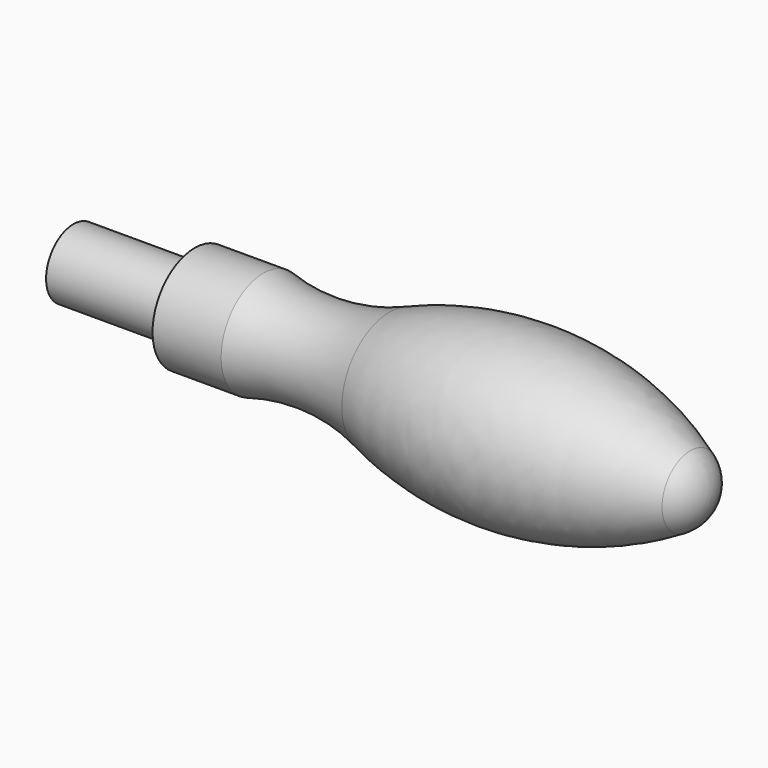
from build123d import *


with BuildPart() as f1:
    # F0 (on Front) → F1 (revolve)
    with BuildSketch(Plane.XZ):
        with BuildLine():
            Line((0, 6.5), (0, 0))
            Line((0, 0), (120.8, 0))
            ThreePointArc((120.8, 0), (119.780303, 3.855839), (116.987822, 6.703527))
            ThreePointArc((116.987822, 6.703527), (88.997191, 15.626515), (59.937706, 11.308939))
            ThreePointArc((59.937706, 11.308939), (48.07478, 8.717289), (36, 10))
            Line((36, 10), (23, 10))
            Line((23, 10), (23, 6.5))
            Line((23, 6.5), (0, 6.5))
        make_face()
    revolve(axis=Axis((60.4, 0, 0), (1, 0, 0)))


solid = f1.part
